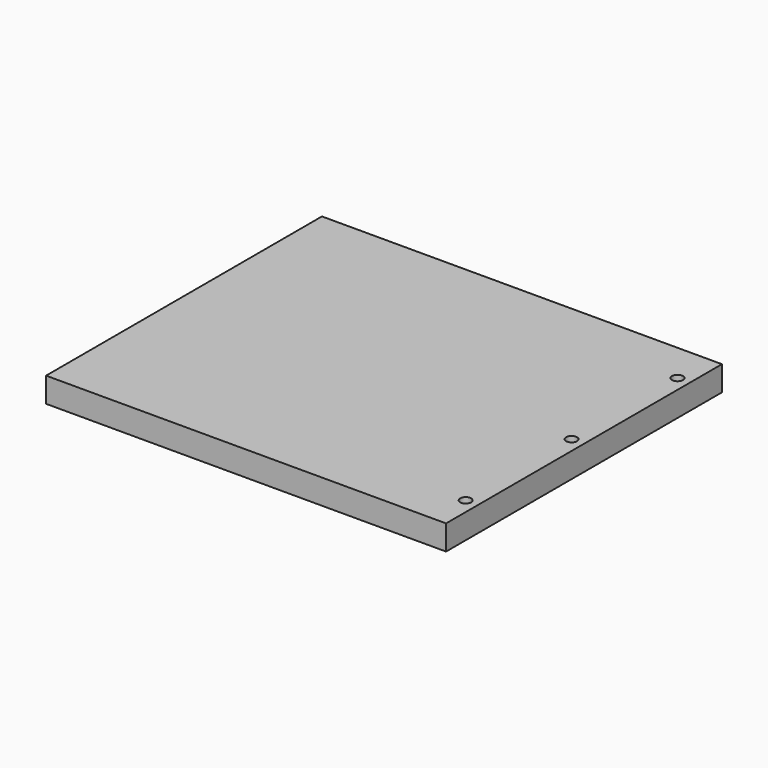
from build123d import *

# Parameters (mm, degrees)
F0_W     = 290
F0_H     = 250
F1_DEPTH = 9
F2_R     = 3.96875
F3_DEPTH = 9
F4_R     = 3.96875
F5_DEPTH = 9


with BuildPart() as f1:
    # F0 (on Top) → F1 (new body, symmetric)
    with BuildSketch(Plane.XY):
        Rectangle(F0_W, F0_H)
    extrude(amount=F1_DEPTH, both=True)

    # F2 (on face) → F3 (cut)
    with BuildSketch(Plane.XY.offset(9)):
        with Locations((136, 0)):
            Circle(F2_R)
        with Locations((136, 96)):
            Circle(F2_R)
        with Locations((136, -96)):
            Circle(F2_R)
    extrude(amount=-F3_DEPTH, mode=Mode.SUBTRACT)

    # F4 (on face) → F5 (cut)
    with BuildSketch(Plane(origin=(-145, 0, 0), x_dir=(0, -1, 0), z_dir=(-1, 0, 0))):
        Circle(F4_R)
        with Locations((96, 0)):
            Circle(F4_R)
        with Locations((-96, 0)):
            Circle(F4_R)
    extrude(amount=-F5_DEPTH, mode=Mode.SUBTRACT)


solid = f1.part
